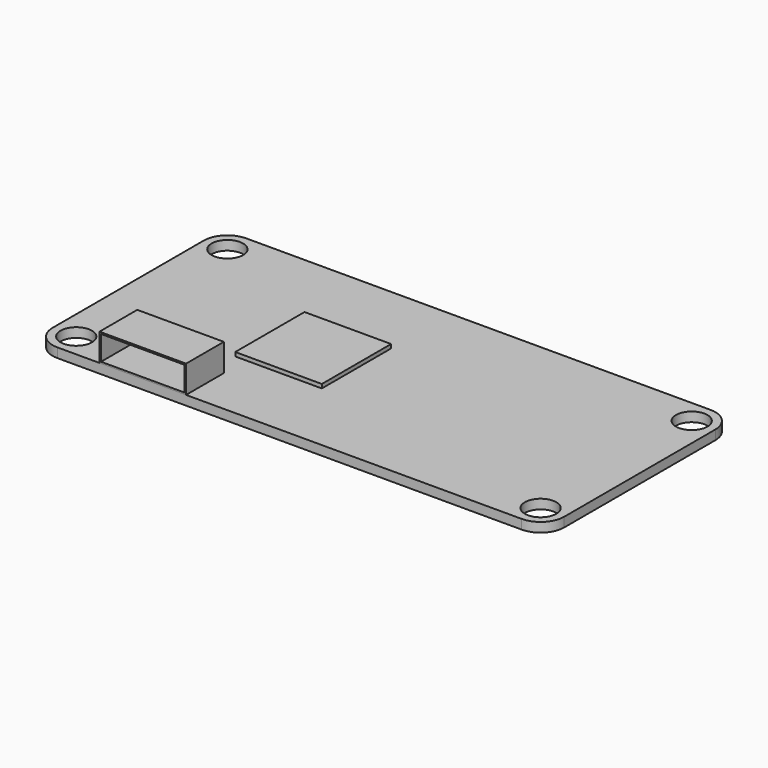
from build123d import *

# Parameters (mm, degrees)
F1_DEPTH = 1.2
F2_R     = 2
F3_DEPTH = 2
F4_W     = 11
F4_H     = 11
F5_DEPTH = 0.5
F6_W     = 11
F6_H     = 6
F7_DEPTH = 3.5
F8_T     = -0.2


with BuildPart() as f1:
    # F0 (on Top) → F1 (new body)
    with BuildSketch(Plane.XY):
        with BuildLine():
            ThreePointArc((32.5, 12), (31.62132, 14.12132), (29.5, 15))
            Line((29.5, 15), (-29.5, 15))
            ThreePointArc((-29.5, 15), (-31.62132, 14.12132), (-32.5, 12))
            Line((-32.5, 12), (-32.5, -12))
            ThreePointArc((-32.5, -12), (-31.62132, -14.12132), (-29.5, -15))
            Line((-29.5, -15), (29.5, -15))
            ThreePointArc((29.5, -15), (31.62132, -14.12132), (32.5, -12))
            Line((32.5, -12), (32.5, 12))
        make_face()
    extrude(amount=F1_DEPTH)

    # F2 (on face) → F3 (cut)
    with BuildSketch(Plane.XY.offset(1.2)):
        with Locations((-29.5, 12)):
            Circle(F2_R)
        with Locations((29.5, 12)):
            Circle(F2_R)
        with Locations((-29.5, -12)):
            Circle(F2_R)
        with Locations((29.5, -12)):
            Circle(F2_R)
    extrude(amount=-F3_DEPTH, mode=Mode.SUBTRACT)


with BuildPart() as f5:
    # F4 (on face) → F5 (new body)
    with BuildSketch(Plane.XY.offset(1.2)):
        with Locations((-9, 0)):
            Rectangle(F4_W, F4_H)
    extrude(amount=F5_DEPTH)


with BuildPart() as f7:
    # F6 (on face) → F7 (new body)
    with BuildSketch(Plane.XY.offset(1.2)):
        with Locations((-18.651528, -12)):
            Rectangle(F6_W, F6_H)
    extrude(amount=F7_DEPTH)

    # F8
    f8_openings = [f7.faces().sort_by_distance(p)[0] for p in [
        (-18.651528, -15, 2.95),
    ]]
    offset(amount=F8_T, openings=f8_openings)


solid = Compound([f1.part, f5.part, f7.part])
